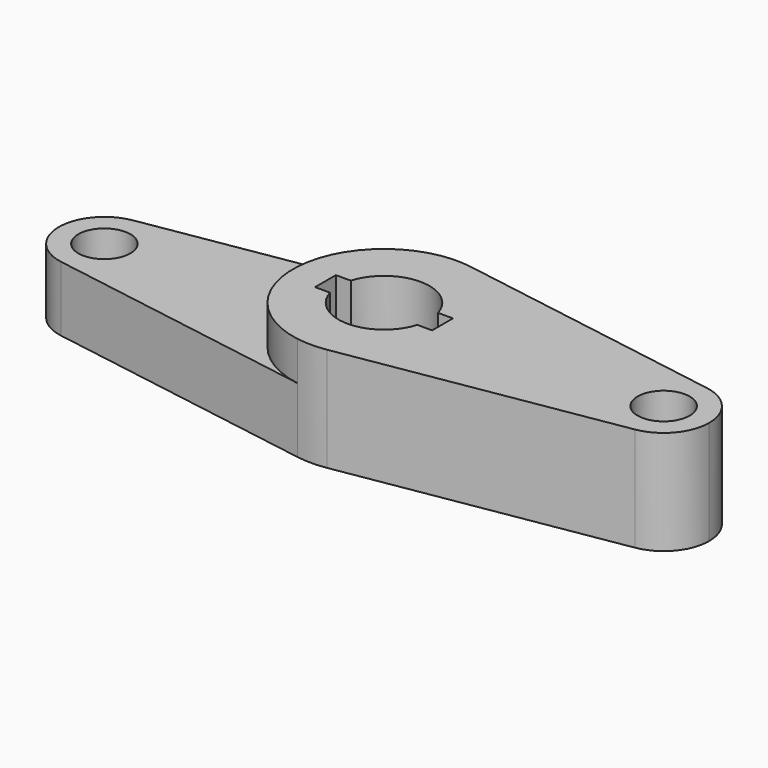
from build123d import *

# Parameters (mm, degrees)
F0_R     = 254
F1_DEPTH = 1016
F2_DEPTH = 635


with BuildPart() as f1:
    # F0 (on Top) → F1 (new body)
    with BuildSketch(Plane.XY):
        with BuildLine():
            ThreePointArc((144.72093, -877.141296), (677.856145, -575.180012), (889, 0))
            ThreePointArc((889, 0), (677.856145, 575.180012), (144.72093, 877.141296))
            ThreePointArc((144.72093, 877.141296), (0, 889), (-144.72093, 877.141296))
            ThreePointArc((-144.72093, 877.141296), (-889, 0), (-144.72093, -877.141296))
            ThreePointArc((-144.72093, -877.141296), (0, -889), (144.72093, -877.141296))
        make_face()
        with BuildLine():
            ThreePointArc((-425.97095, 127), (0, 444.5), (425.97095, 127))
            Line((425.97095, 127), (571.5, 127))
            Line((571.5, 127), (571.5, -127))
            Line((571.5, -127), (425.97095, -127))
            ThreePointArc((425.97095, -127), (0, -444.5), (-425.97095, -127))
            Line((-425.97095, -127), (-571.5, -127))
            Line((-571.5, -127), (-571.5, 127))
            Line((-571.5, 127), (-425.97095, 127))
        make_face(mode=Mode.SUBTRACT)
        with BuildLine():
            ThreePointArc((144.72093, 877.141296), (677.856145, 575.180012), (889, 0))
            ThreePointArc((889, 0), (677.856145, -575.180012), (144.72093, -877.141296))
            Line((144.72093, -877.141296), (2802.860465, -438.570648))
            ThreePointArc((2802.860465, -438.570648), (2286, 0), (2802.860465, 438.570648))
            Line((2802.860465, 438.570648), (144.72093, 877.141296))
        make_face()
        with BuildLine():
            ThreePointArc((3175, 0), (3069.428073, 287.590006), (2802.860465, 438.570648))
            ThreePointArc((2802.860465, 438.570648), (2286, 0), (2802.860465, -438.570648))
            ThreePointArc((2802.860465, -438.570648), (3069.428073, -287.590006), (3175, 0))
        make_face()
        with Locations((2730.5, 0)):
            Circle(F0_R, mode=Mode.SUBTRACT)
    extrude(amount=F1_DEPTH)

    # F0 (on Top) → F2 (join)
    with BuildSketch(Plane.XY):
        with BuildLine():
            ThreePointArc((144.72093, -877.141296), (677.856145, -575.180012), (889, 0))
            ThreePointArc((889, 0), (677.856145, 575.180012), (144.72093, 877.141296))
            ThreePointArc((144.72093, 877.141296), (0, 889), (-144.72093, 877.141296))
            ThreePointArc((-144.72093, 877.141296), (-889, 0), (-144.72093, -877.141296))
            ThreePointArc((-144.72093, -877.141296), (0, -889), (144.72093, -877.141296))
        make_face()
        with BuildLine():
            ThreePointArc((-425.97095, 127), (0, 444.5), (425.97095, 127))
            Line((425.97095, 127), (571.5, 127))
            Line((571.5, 127), (571.5, -127))
            Line((571.5, -127), (425.97095, -127))
            ThreePointArc((425.97095, -127), (0, -444.5), (-425.97095, -127))
            Line((-425.97095, -127), (-571.5, -127))
            Line((-571.5, -127), (-571.5, 127))
            Line((-571.5, 127), (-425.97095, 127))
        make_face(mode=Mode.SUBTRACT)
        with BuildLine():
            ThreePointArc((144.72093, 877.141296), (677.856145, 575.180012), (889, 0))
            ThreePointArc((889, 0), (677.856145, -575.180012), (144.72093, -877.141296))
            Line((144.72093, -877.141296), (2802.860465, -438.570648))
            ThreePointArc((2802.860465, -438.570648), (2286, 0), (2802.860465, 438.570648))
            Line((2802.860465, 438.570648), (144.72093, 877.141296))
        make_face()
        with BuildLine():
            ThreePointArc((-144.72093, -877.141296), (-889, 0), (-144.72093, 877.141296))
            Line((-144.72093, 877.141296), (-2802.860465, 438.570648))
            ThreePointArc((-2802.860465, 438.570648), (-2442.909994, 338.928073), (-2286, 0))
            ThreePointArc((-2286, 0), (-2442.909994, -338.928073), (-2802.860465, -438.570648))
            Line((-2802.860465, -438.570648), (-144.72093, -877.141296))
        make_face()
        with BuildLine():
            ThreePointArc((3175, 0), (3069.428073, 287.590006), (2802.860465, 438.570648))
            ThreePointArc((2802.860465, 438.570648), (2286, 0), (2802.860465, -438.570648))
            ThreePointArc((2802.860465, -438.570648), (3069.428073, -287.590006), (3175, 0))
        make_face()
        with Locations((2730.5, 0)):
            Circle(F0_R, mode=Mode.SUBTRACT)
        with BuildLine():
            ThreePointArc((-2286, 0), (-2442.909994, 338.928073), (-2802.860465, 438.570648))
            ThreePointArc((-2802.860465, 438.570648), (-3175, 0), (-2802.860465, -438.570648))
            ThreePointArc((-2802.860465, -438.570648), (-2442.909994, -338.928073), (-2286, 0))
        make_face()
        with Locations((-2730.5, 0)):
            Circle(F0_R, mode=Mode.SUBTRACT)
    extrude(amount=F2_DEPTH)


solid = f1.part
